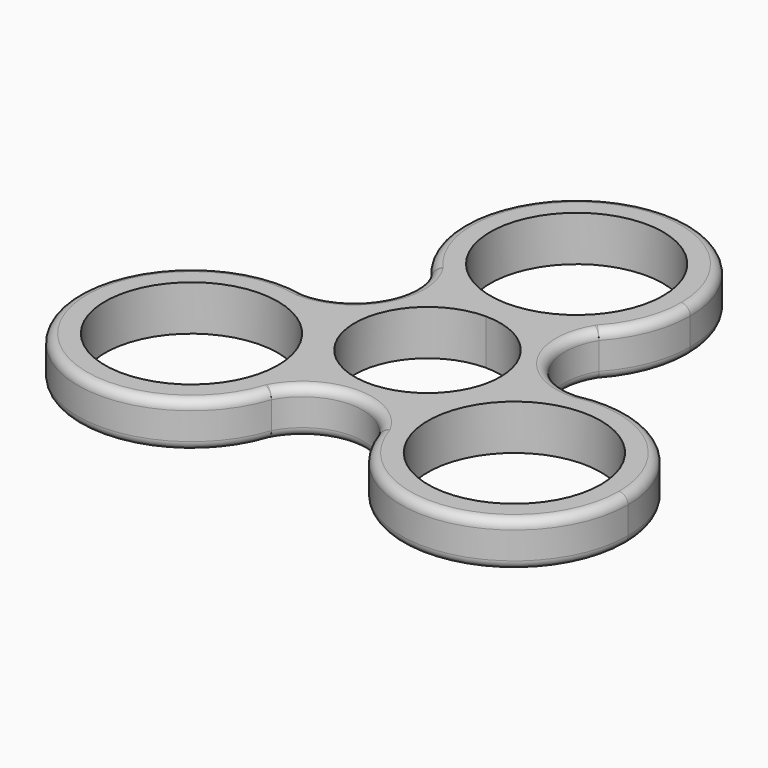
from build123d import *

# Parameters (mm, degrees)
F0_R     = 9.55
F1_DEPTH = 5
F2_DEPTH = 25
F3_R     = 1


with BuildPart() as f1:
    # F0 (on Top) → F1 (new body)
    with BuildSketch(Plane.XY):
        with BuildLine():
            ThreePointArc((-9.3202581608, 12.1955197771), (-5.1003075024, 9.1331188468), (-3.8e-09, 8.05))
            ThreePointArc((-3.8e-09, 8.05), (5.0509940874, 9.1113117055), (9.2476966795, 12.1157436316))
            ThreePointArc((9.2476966795, 12.1157436316), (11.6953215716, 16.0478627727), (12.55, 20.6))
            ThreePointArc((12.55, 20.6), (-4.5018474031, 32.3147714429), (-9.3202581608, 12.1955197771))
        make_face()
        with Locations((0, 20.6)):
            Circle(F0_R, mode=Mode.SUBTRACT)
        with BuildLine():
            ThreePointArc((-5.290123318, -10.3), (-5.7177541932, -7.051821002), (-6.9715044818, -4.0250000323))
            ThreePointArc((-6.9715044818, -4.0250000323), (-10.4161244289, -0.1813666686), (-15.1163901104, 1.9508684351))
            ThreePointArc((-15.1163901104, 1.9508684351), (-28.7356017489, -16.5282461224), (-5.901500859, -14.1693402256))
            ThreePointArc((-5.901500859, -14.1693402256), (-5.4439099473, -12.2586715064), (-5.290123318, -10.3))
        make_face()
        with Locations((-17.840123318, -10.3)):
            Circle(F0_R, mode=Mode.SUBTRACT)
        with BuildLine():
            ThreePointArc((15.2217590198, 1.9738204485), (10.4596665987, -0.1495636244), (6.9715043915, -4.0250001888))
            ThreePointArc((6.9715043915, -4.0250001888), (5.3651303429, -8.929945157), (5.868693431, -14.0666120667))
            ThreePointArc((5.868693431, -14.0666120667), (19.7455176234, -22.7045142001), (30.390123318, -10.3))
            ThreePointArc((30.390123318, -10.3), (25.7344892855, -0.5439000635), (15.2217590198, 1.9738204485))
        make_face()
        with Locations((17.840123318, -10.3)):
            Circle(F0_R, mode=Mode.SUBTRACT)
        with Locations((17.840123318, -10.3)):
            Circle(F0_R)
        with Locations((0, 20.6)):
            Circle(F0_R)
        with Locations((-17.840123318, -10.3)):
            Circle(F0_R)
        with BuildLine():
            ThreePointArc((6.9715043915, -4.0250001888), (7.7757028734, -2.0834934184), (8.05, 0))
            ThreePointArc((8.05, 0), (5.6922095872, 5.6922095899), (-3.8e-09, 8.05))
            ThreePointArc((-3.8e-09, 8.05), (-6.9715045107, 4.0249999822), (-6.9715044818, -4.0250000323))
            ThreePointArc((-6.9715044818, -4.0250000323), (-9.03e-08, -8.05), (6.9715043915, -4.0250001888))
        make_face()
        with BuildLine():
            ThreePointArc((-6.9715044818, -4.0250000323), (-6.9715045107, 4.0249999822), (-3.8e-09, 8.05))
            ThreePointArc((-3.8e-09, 8.05), (-5.1003075024, 9.1331188468), (-9.3202581608, 12.1955197771))
            ThreePointArc((-9.3202581608, 12.1955197771), (-9.1564303233, 5.3408617934), (-15.1163901104, 1.9508684351))
            ThreePointArc((-15.1163901104, 1.9508684351), (-10.4161244289, -0.1813666686), (-6.9715044818, -4.0250000323))
        make_face()
        with BuildLine():
            ThreePointArc((-3.8e-09, 8.05), (5.6922095872, 5.6922095899), (8.05, 0))
            ThreePointArc((8.05, 0), (7.7757028734, -2.0834934184), (6.9715043915, -4.0250001888))
            ThreePointArc((6.9715043915, -4.0250001888), (10.4596665987, -0.1495636244), (15.2217590198, 1.9738204485))
            ThreePointArc((15.2217590198, 1.9738204485), (9.2035371529, 5.2592703712), (9.2476966795, 12.1157436316))
            ThreePointArc((9.2476966795, 12.1157436316), (5.0509940874, 9.1113117055), (-3.8e-09, 8.05))
        make_face()
        with BuildLine():
            ThreePointArc((5.868693431, -14.0666120667), (5.3651303429, -8.929945157), (6.9715043915, -4.0250001888))
            ThreePointArc((6.9715043915, -4.0250001888), (-9.03e-08, -8.05), (-6.9715044818, -4.0250000323))
            ThreePointArc((-6.9715044818, -4.0250000323), (-5.7177541932, -7.051821002), (-5.290123318, -10.3))
            ThreePointArc((-5.290123318, -10.3), (-5.4439099473, -12.2586715064), (-5.901500859, -14.1693402256))
            ThreePointArc((-5.901500859, -14.1693402256), (-0.0471068296, -10.6001321647), (5.868693431, -14.0666120667))
        make_face()
    extrude(amount=F1_DEPTH)

    # F0 (on Top) → F2 (cut)
    with BuildSketch(Plane.XY):
        with Locations((-17.840123318, -10.3)):
            Circle(F0_R)
        with Locations((0, 20.6)):
            Circle(F0_R)
        with Locations((17.840123318, -10.3)):
            Circle(F0_R)
        with BuildLine():
            ThreePointArc((6.9715043915, -4.0250001888), (7.7757028734, -2.0834934184), (8.05, 0))
            ThreePointArc((8.05, 0), (5.6922095872, 5.6922095899), (-3.8e-09, 8.05))
            ThreePointArc((-3.8e-09, 8.05), (-6.9715045107, 4.0249999822), (-6.9715044818, -4.0250000323))
            ThreePointArc((-6.9715044818, -4.0250000323), (-9.03e-08, -8.05), (6.9715043915, -4.0250001888))
        make_face()
    extrude(amount=F2_DEPTH, mode=Mode.SUBTRACT)

    # F3 (call 1 of 2: OpenCascade refuses the feature's edges together)
    f3_edges = [f1.edges().sort_by_distance(p)[0] for p in [
        (0.05392, 33.149884, 0),
        (9.203537, 5.25927, 0),
        (28.681682, -16.621638, 0),
        (-0.047107, -10.600132, 0),
        (-28.735602, -16.528246, 0),
        (-9.15643, 5.340862, 0),
    ]]
    fillet(f3_edges, radius=F3_R)

    # F3#2 (call 2 of 2)
    f3_2_edges = [f1.edges().sort_by_distance(p)[0] for p in [
        (0.05392, 33.149884, 5),
        (-9.15643, 5.340862, 5),
        (-28.735602, -16.528246, 5),
        (-0.047107, -10.600132, 5),
        (28.681682, -16.621638, 5),
        (9.203537, 5.25927, 5),
    ]]
    fillet(f3_2_edges, radius=F3_R)


solid = f1.part
